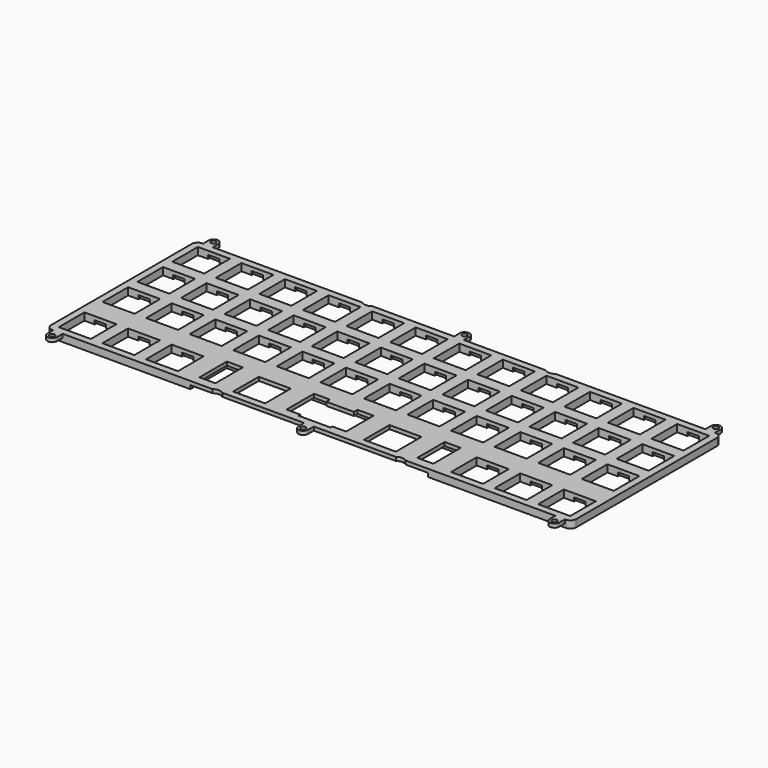
from build123d import *

# Parameters (mm, degrees)
SKETCH036_W     = 114.8
SKETCH036_H     = 81.9625
PAD015_DEPTH    = 3.2
SKETCH037_W     = 14
SKETCH037_H     = 14
POCKET022_DEPTH = 5
SKETCH038_W     = 14
SKETCH038_H     = 14
POCKET023_DEPTH = 5
SKETCH039_W     = 14
SKETCH039_H     = 14
SKETCH039_W_2   = 7
SKETCH039_H_2   = 15
POCKET024_DEPTH = 5
SKETCH052_R     = 1.1
PAD019_DEPTH    = 1.6
SKETCH055_R     = 3.5
POCKET030_DEPTH = 5
FILLET008_R     = 2.5
SKETCH056_W     = 5
SKETCH056_H     = 16
SKETCH056_W_2   = 55.040236
SKETCH056_H_2   = 20.241009
POCKET031_DEPTH = 1.6


with BuildPart() as plate:
    # Sketch036 → Pad015 (new body)
    with BuildSketch(Plane.XY):
        with Locations((-57.4, 0)):
            Rectangle(SKETCH036_W, SKETCH036_H)
    extrude(amount=-PAD015_DEPTH)

    # Sketch037 → Pocket022 (cut)
    with BuildSketch(Plane.XY):
        with Locations((-9.525, 30.98125)):
            Rectangle(SKETCH037_W, SKETCH037_H)
        with Locations((-28.575, 30.98125)):
            Rectangle(SKETCH037_W, SKETCH037_H)
        with Locations((-47.625, 30.98125)):
            Rectangle(SKETCH037_W, SKETCH037_H)
        with Locations((-66.675, 30.98125)):
            Rectangle(SKETCH037_W, SKETCH037_H)
        with Locations((-85.725, 30.98125)):
            Rectangle(SKETCH037_W, SKETCH037_H)
        with Locations((-85.725, 11.93125)):
            Rectangle(SKETCH037_W, SKETCH037_H)
        with Locations((-66.675, 11.93125)):
            Rectangle(SKETCH037_W, SKETCH037_H)
        with Locations((-9.525, 11.93125)):
            Rectangle(SKETCH037_W, SKETCH037_H)
        with Locations((-47.625, 11.93125)):
            Rectangle(SKETCH037_W, SKETCH037_H)
        with Locations((-28.575, 11.93125)):
            Rectangle(SKETCH037_W, SKETCH037_H)
        with Locations((-9.525, -7.11875)):
            Rectangle(SKETCH037_W, SKETCH037_H)
        with Locations((-28.575, -7.11875)):
            Rectangle(SKETCH037_W, SKETCH037_H)
        with Locations((-47.625, -7.11875)):
            Rectangle(SKETCH037_W, SKETCH037_H)
        with Locations((-66.675, -7.11875)):
            Rectangle(SKETCH037_W, SKETCH037_H)
        with Locations((-85.725, -7.11875)):
            Rectangle(SKETCH037_W, SKETCH037_H)
        with Locations((-104.775, 30.98125)):
            Rectangle(SKETCH037_W, SKETCH037_H)
        with Locations((-104.775, 11.93125)):
            Rectangle(SKETCH037_W, SKETCH037_H)
        with Locations((-104.775, -7.11875)):
            Rectangle(SKETCH037_W, SKETCH037_H)
    extrude(amount=-POCKET022_DEPTH, mode=Mode.SUBTRACT)

    # Sketch038 → Pocket023 (cut)
    with BuildSketch(Plane.XY):
        with Locations((-104.8, -30.98125)):
            Rectangle(SKETCH038_W, SKETCH038_H)
        with Locations((-85.75, -30.98125)):
            Rectangle(SKETCH038_W, SKETCH038_H)
        with Locations((-66.7, -30.98125)):
            Rectangle(SKETCH038_W, SKETCH038_H)
    extrude(amount=-POCKET023_DEPTH, mode=Mode.SUBTRACT)

    # Sketch039 → Pocket024 (cut)
    with BuildSketch(Plane.XY):
        with Locations((-28.575, -30.98125)):
            Rectangle(SKETCH039_W, SKETCH039_H)
        with Locations((-47.625, -29.48125)):
            Rectangle(SKETCH039_W_2, SKETCH039_H_2)
        Polygon((0, -23.98125), (-6.025, -23.98125), (-6.025, -21.98125), (-13.025, -21.98125), (-13.025, -36.98125), (-7, -36.98125), (-7, -37.98125), (0, -37.98125), align=None)
    extrude(amount=-POCKET024_DEPTH, mode=Mode.SUBTRACT)

    # Sketch052 → Pad019 (join)
    with BuildSketch(Plane.XY):
        with BuildLine():
            ThreePointArc((0, -42.98125), (-1.1, -44.08125), (0, -45.18125))
            Line((0, -46.18125), (0, -45.18125))
            ThreePointArc((-2.1, -44.08125), (-1.484924, -45.566174), (0, -46.18125))
            Line((-2.1, -40.98125), (-2.1, -44.08125))
            Line((0, -40.98125), (-2.1, -40.98125))
            Line((0, -40.98125), (0, -42.98125))
        make_face()
        with BuildLine():
            ThreePointArc((0, 45.18125), (-1.1, 44.08125), (0, 42.98125))
            Line((0, 40.98125), (0, 42.98125))
            Line((-2.1, 40.98125), (0, 40.98125))
            Line((-2.1, 44.08125), (-2.1, 40.98125))
            ThreePointArc((0, 46.18125), (-1.484924, 45.566174), (-2.1, 44.08125))
            Line((0, 46.18125), (0, 45.18125))
        make_face()
        with BuildLine():
            ThreePointArc((-107.7, 44.08125), (-109.8, 46.18125), (-111.9, 44.08125))
            Line((-111.9, 44.08125), (-111.9, 40.98125))
            Line((-107.7, 40.98125), (-111.9, 40.98125))
            Line((-107.7, 44.08125), (-107.7, 40.98125))
        make_face()
        with Locations((-109.8, 44.08125)):
            Circle(SKETCH052_R, mode=Mode.SUBTRACT)
        with BuildLine():
            ThreePointArc((-111.9, -44.08125), (-109.8, -46.18125), (-107.7, -44.08125))
            Line((-107.7, -40.98125), (-107.7, -44.08125))
            Line((-111.9, -40.98125), (-107.7, -40.98125))
            Line((-111.9, -44.08125), (-111.9, -40.98125))
        make_face()
        with Locations((-109.8, -44.08125)):
            Circle(SKETCH052_R, mode=Mode.SUBTRACT)
    extrude(amount=-PAD019_DEPTH)

    # Sketch055 → Pocket030 (cut)
    with BuildSketch(Plane.XY):
        with Locations((-40.1, -43.73125)):
            Circle(SKETCH055_R)
        with Locations((-40.1, 43.73125)):
            Circle(SKETCH055_R)
    extrude(amount=-POCKET030_DEPTH, mode=Mode.SUBTRACT)

    # Fillet008
    fillet008_edges = [plate.edges().sort_by_distance(p)[0] for p in [
        (-114.8, -40.98125, -1.6),
        (-114.8, 40.98125, -1.6),
    ]]
    fillet(fillet008_edges, radius=FILLET008_R)

    # Sketch056 (on Face5 of Fillet008) → Pocket031 (cut)
    with BuildSketch(Plane(origin=(0, 0, -3.2), x_dir=(1, 0, 0), z_dir=(0, 0, -1))):
        with Locations((-104.8, 30.98125)):
            Rectangle(SKETCH056_W, SKETCH056_H)
        with Locations((-85.75, 30.98125)):
            Rectangle(SKETCH056_W, SKETCH056_H)
        with Locations((-66.7, 30.98125)):
            Rectangle(SKETCH056_W, SKETCH056_H)
        with Locations((-24.395383, 31.208021)):
            Rectangle(SKETCH056_W_2, SKETCH056_H_2)
        with Locations((-104.8, 7.16875)):
            Rectangle(SKETCH056_W, SKETCH056_H)
        with Locations((-104.8, -11.88125)):
            Rectangle(SKETCH056_W, SKETCH056_H)
        with Locations((-104.8, -30.93125)):
            Rectangle(SKETCH056_W, SKETCH056_H)
        with Locations((-85.75, -30.93125)):
            Rectangle(SKETCH056_W, SKETCH056_H)
        with Locations((-85.75, -11.88125)):
            Rectangle(SKETCH056_W, SKETCH056_H)
        with Locations((-85.75, 7.16875)):
            Rectangle(SKETCH056_W, SKETCH056_H)
        with Locations((-66.7, 7.16875)):
            Rectangle(SKETCH056_W, SKETCH056_H)
        with Locations((-66.7, -11.88125)):
            Rectangle(SKETCH056_W, SKETCH056_H)
        with Locations((-66.7, -30.93125)):
            Rectangle(SKETCH056_W, SKETCH056_H)
        with Locations((-47.65, -30.93125)):
            Rectangle(SKETCH056_W, SKETCH056_H)
        with Locations((-47.65, -11.88125)):
            Rectangle(SKETCH056_W, SKETCH056_H)
        with Locations((-47.65, 7.16875)):
            Rectangle(SKETCH056_W, SKETCH056_H)
        with Locations((-28.6, 7.16875)):
            Rectangle(SKETCH056_W, SKETCH056_H)
        with Locations((-28.6, -11.88125)):
            Rectangle(SKETCH056_W, SKETCH056_H)
        with Locations((-28.6, -30.93125)):
            Rectangle(SKETCH056_W, SKETCH056_H)
        with Locations((-9.55, -30.93125)):
            Rectangle(SKETCH056_W, SKETCH056_H)
        with Locations((-9.55, -11.88125)):
            Rectangle(SKETCH056_W, SKETCH056_H)
        with Locations((-9.55, 7.16875)):
            Rectangle(SKETCH056_W, SKETCH056_H)
    extrude(amount=-POCKET031_DEPTH, mode=Mode.SUBTRACT)


with BuildPart() as case_plate:
    # Part__Mirroring002: instance of plate
    add(plate.part.mirror(Plane(origin=(0, 0, 0), x_dir=(0, -1, 0), z_dir=(1, 0, 0))))

    # Fusion002: union plate
    add(plate.part)


solid = case_plate.part
